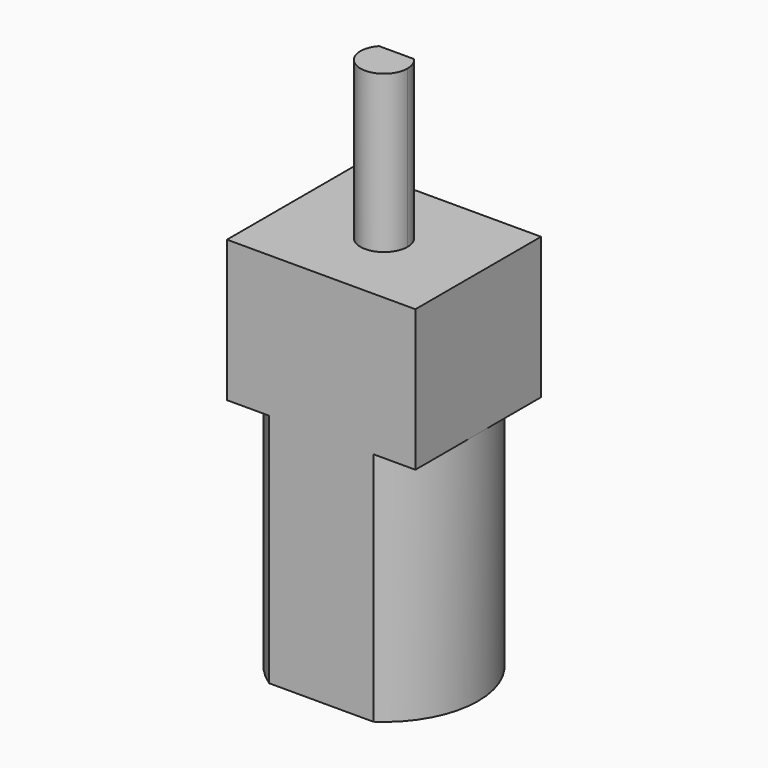
from build123d import *

# Parameters (mm, degrees)
F1_DEPTH = 15
F2_W     = 11.99975
F2_H     = 10
F3_DEPTH = 9
F5_DEPTH = 10


with BuildPart() as f1:
    # F0 (on Top) → F1 (new body)
    with BuildSketch(Plane.XY):
        with BuildLine():
            Line((3.3165, 5), (-3.3165, 5))
            ThreePointArc((-3.3165, 5), (-5.999875, 0), (-3.3165, -5))
            Line((-3.3165, -5), (3.3165, -5))
            ThreePointArc((3.3165, -5), (5.999875, 0), (3.3165, 5))
        make_face()
    extrude(amount=F1_DEPTH)

    # F2 (on face) → F3 (join)
    with BuildSketch(Plane.XY.offset(15)):
        Rectangle(F2_W, F2_H)
    extrude(amount=F3_DEPTH)

    # F4 (on face) → F5 (join)
    with BuildSketch(Plane.XY.offset(24)):
        with BuildLine():
            ThreePointArc((-1.118034, 1), (-0.535233, -1.401259), (1.5, 0))
            ThreePointArc((1.5, 0), (1.401259, 0.535233), (1.118034, 1))
            Line((1.118034, 1), (-1.118034, 1))
        make_face()
    extrude(amount=F5_DEPTH)


solid = f1.part
